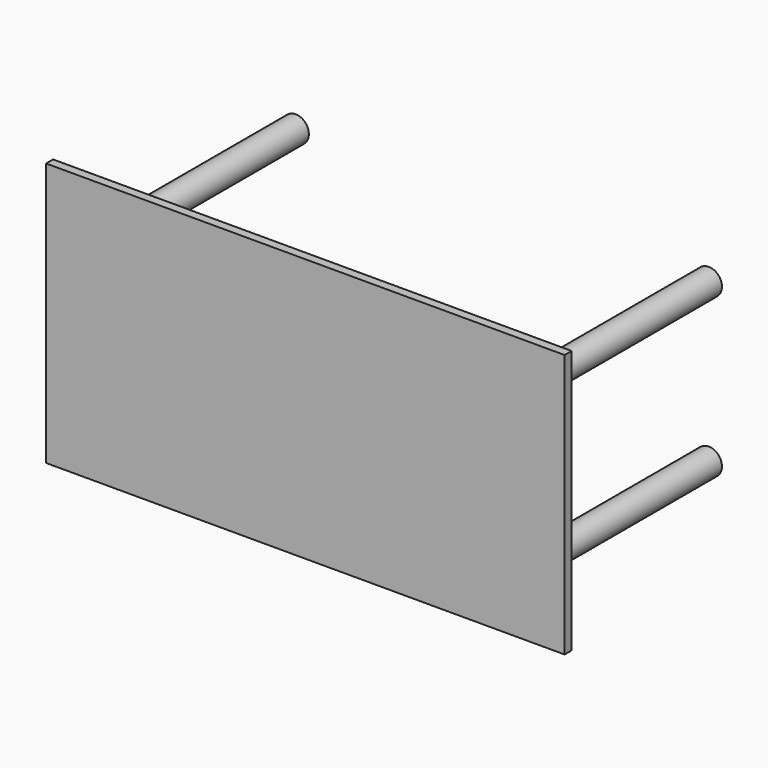
from build123d import *

# Parameters (mm, degrees)
F0_W     = 59
F0_H     = 30
F1_DEPTH = 1
F2_R     = 1.5
F3_DEPTH = 27


with BuildPart() as f1:
    # F0 (on Front) → F1 (new body)
    with BuildSketch(Plane.XZ):
        Rectangle(F0_W, F0_H)
    extrude(amount=F1_DEPTH)

    # F2 (on face) → F3 (join)
    with BuildSketch(Plane(origin=(0, 0, 0), x_dir=(-1, 0, 0), z_dir=(0, 1, 0))):
        with Locations((23.5, 9)):
            Circle(F2_R)
        with Locations((-23.5, 9)):
            Circle(F2_R)
        with Locations((-23.5, -9)):
            Circle(F2_R)
        with Locations((23.5, -9)):
            Circle(F2_R)
    extrude(amount=F3_DEPTH)


solid = f1.part
